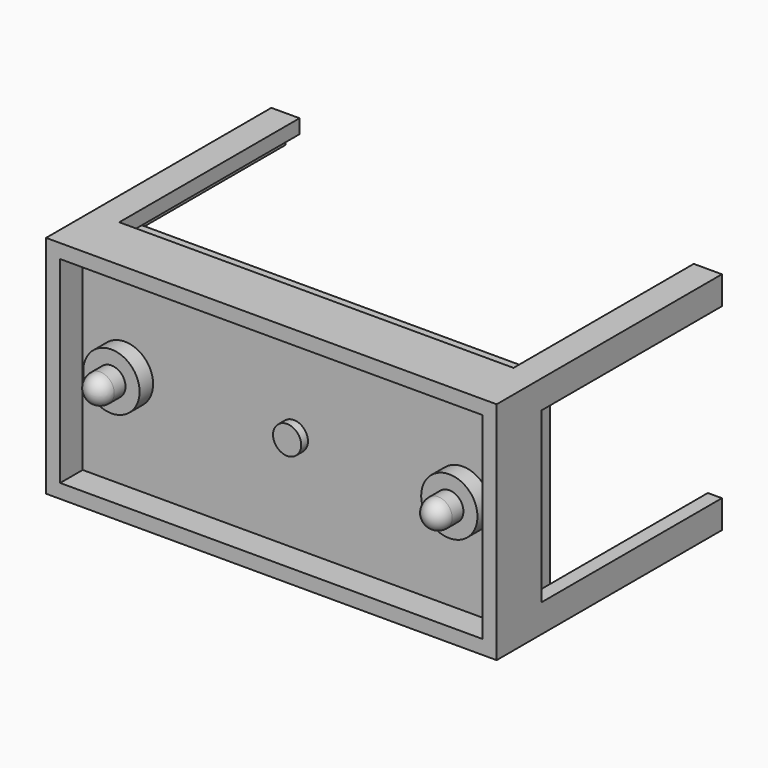
from build123d import *

# Parameters (mm, degrees)
F0_W     = 203.2
F0_H     = 101.6
F0_W_2   = 190.5
F0_H_2   = 88.9
F1_DEPTH = 12.7
F3_DEPTH = 101.6
F4_DEPTH = 12.7
F0_R     = 6.35
F5_DEPTH = 25.4
F6_DEPTH = 3.81
F7_R     = 12.7
F7_R_2   = 6.35
F8_DEPTH = 7.62
F9_DEPTH = 20.32
F10_R    = 6.35


with BuildPart() as f1:
    # F0 (on Front) → F1 (new body)
    with BuildSketch(Plane.XZ):
        Rectangle(F0_W, F0_H)
        Rectangle(F0_W_2, F0_H_2, mode=Mode.SUBTRACT)
    extrude(amount=-F1_DEPTH)

    # F2 (on face) → F3 (join)
    with BuildSketch(Plane(origin=(0, 12.7, 0), x_dir=(-1, 0, 0), z_dir=(0, 1, 0))):
        Polygon((88.9, -50.8), (101.6, -50.8), (101.6, -38.1), (95.25, -38.1), (95.25, -44.45), (88.9, -44.45), align=None)
        Polygon((-101.6, -50.8), (-88.9, -50.8), (-88.9, -44.45), (-95.25, -44.45), (-95.25, -38.1), (-101.6, -38.1), align=None)
        Polygon((-101.6, 50.8), (-101.6, 38.1), (-95.25, 38.1), (-95.25, 44.45), (-88.9, 44.45), (-88.9, 50.8), align=None)
        Polygon((95.25, 38.1), (101.6, 38.1), (101.6, 50.8), (88.9, 50.8), (88.9, 44.45), (95.25, 44.45), align=None)
    extrude(amount=F3_DEPTH)

    # F0 (on Front) → F4 (join)
    with BuildSketch(Plane.XZ):
        Rectangle(F0_W, F0_H)
        Rectangle(F0_W_2, F0_H_2, mode=Mode.SUBTRACT)
    extrude(amount=F4_DEPTH)

    # F0 (on Front) → F5 (join)
    with BuildSketch(Plane.XZ):
        Rectangle(F0_W_2, F0_H_2)
        Circle(F0_R, mode=Mode.SUBTRACT)
    extrude(amount=-F5_DEPTH)

    # F7 (on Front) → F8 (join)
    with BuildSketch(Plane.XZ):
        with Locations((-76.2, 0)):
            Circle(F7_R)
        with Locations((-76.2, 0)):
            Circle(F7_R_2, mode=Mode.SUBTRACT)
        with BuildLine():
            ThreePointArc((88.9, 0), (76.2, 12.7), (63.5, 0))
            ThreePointArc((63.5, 0), (76.2, -12.7), (88.9, 0))
        make_face()
        with BuildLine():
            ThreePointArc((82.55, 0), (76.2, -6.35), (69.85, 0))
            ThreePointArc((69.85, 0), (76.2, 6.35), (82.55, 0))
        make_face(mode=Mode.SUBTRACT)
    extrude(amount=F8_DEPTH)

    # F9 (add): faces of the model
    f9_faces = [f1.faces().sort_by_distance(p)[0] for p in [
        (-76.2, 0, 0),
        (76.2, 0, 0),
    ]]
    extrude(f9_faces, amount=F9_DEPTH)

    # F10
    f10_edges = [f1.edges().sort_by_distance(p)[0] for p in [
        (-82.55, -20.32, 0),
        (82.55, -20.32, 0),
    ]]
    fillet(f10_edges, radius=F10_R)


with BuildPart() as f6:
    # F0 (on Front) → F6 (new body)
    with BuildSketch(Plane.XZ):
        Circle(F0_R)
    extrude(amount=F6_DEPTH)


solid = Compound([f1.part, f6.part])
